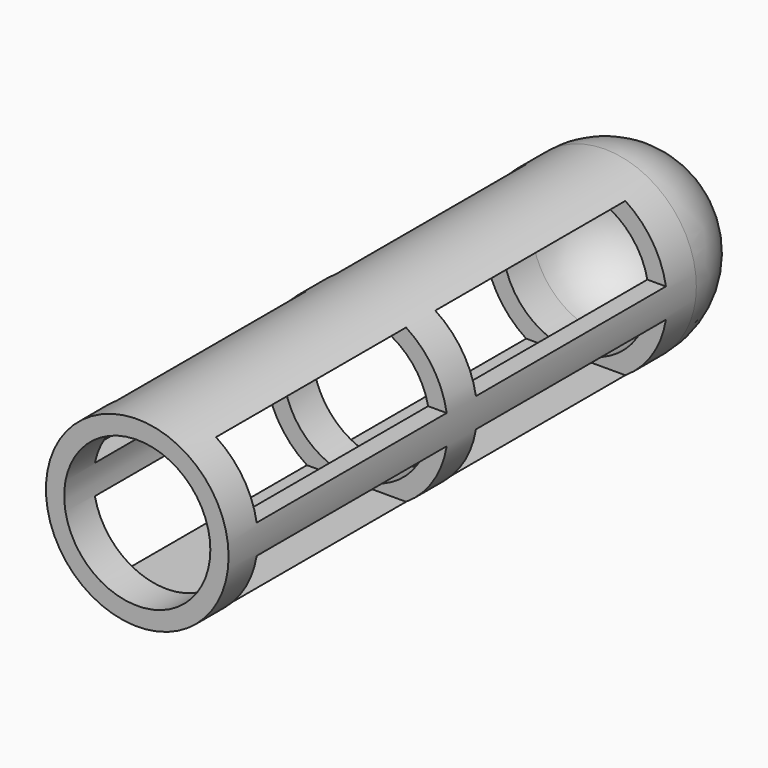
from build123d import *

# Parameters (mm, degrees)
F0_R     = 31.75
F0_R_2   = 25.4
F1_DEPTH = 203.2
F3_ANGLE = -180
F4_W     = 82.55
F4_H     = 21.59
F5_DEPTH = 63.5


with BuildPart() as f1:
    # F0 (on Front) → F1 (new body)
    with BuildSketch(Plane.XZ):
        Circle(F0_R)
        Circle(F0_R_2, mode=Mode.SUBTRACT)
    extrude(amount=-F1_DEPTH)

    # F2 (on face) → F3 (revolve)
    with BuildSketch(Plane(origin=(0, 203.2, 0), x_dir=(-1, 0, 0), z_dir=(0, 1, 0))):
        with BuildLine():
            Line((0, 25.4), (0, 31.75))
            ThreePointArc((0, 31.75), (-31.75, 0), (0, -31.75))
            Line((0, -31.75), (0, -25.4))
            ThreePointArc((0, -25.4), (-25.4, 0), (0, 25.4))
        make_face()
    revolve(axis=Axis((0, 203.2, 0), (0, 0, -1)), revolution_arc=F3_ANGLE)

    # F4 (on Right) → F5 (cut, symmetric)
    with BuildSketch(Plane.YZ):
        Polygon((190.5, 5.08), (190.5, 26.67), (133.185655, 26.67), (120.587125, 26.67), (107.95, 26.67), (107.95, 5.08), (120.587125, 5.08), (133.287125, 5.08), align=None)
        with Locations((149.225, -15.875)):
            Rectangle(F4_W, F4_H)
        with Locations((53.975, 15.875)):
            Rectangle(F4_W, F4_H)
        with Locations((53.975, -15.875)):
            Rectangle(F4_W, F4_H)
    extrude(amount=F5_DEPTH, both=True, mode=Mode.SUBTRACT)


solid = f1.part
